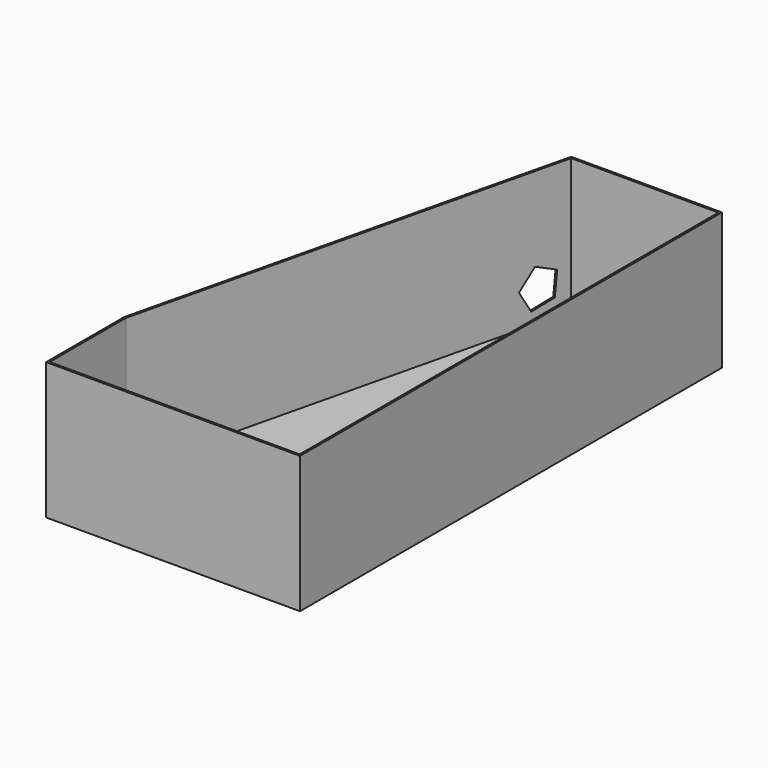
from build123d import *

# Parameters (mm, degrees)
F1_DEPTH = 70
F2_T     = -1
F4_DEPTH = 4


with BuildPart() as f1:
    # F0 (on Top) → F1 (new body)
    with BuildSketch(Plane.XY):
        Polygon((50.477442, 204.086703), (-26.674857, 204.086703), (-79.522558, -15.913297), (-79.522558, -65.913297), (50.477442, -65.913297), align=None)
    extrude(amount=F1_DEPTH)

    # F2
    f2_openings = [f1.faces().sort_by_distance(p)[0] for p in [
        (-5.117094, 56.846235, 70),
    ]]
    offset(amount=F2_T, openings=f2_openings)

    # F3 (on face) → F4 (cut)
    with BuildSketch(Plane(origin=(-71.57003, 17.192325, 0), x_dir=(-0.233572, -0.972339, 0), z_dir=(-0.972339, 0.233572, 0))):
        Polygon((-165.007069, 17.787976), (-173.111157, 26.931221), (-184.3112, 22.049193), (-183.12912, 9.888689), (-171.19851, 7.255112), align=None)
    extrude(amount=-F4_DEPTH, mode=Mode.SUBTRACT)


solid = f1.part
